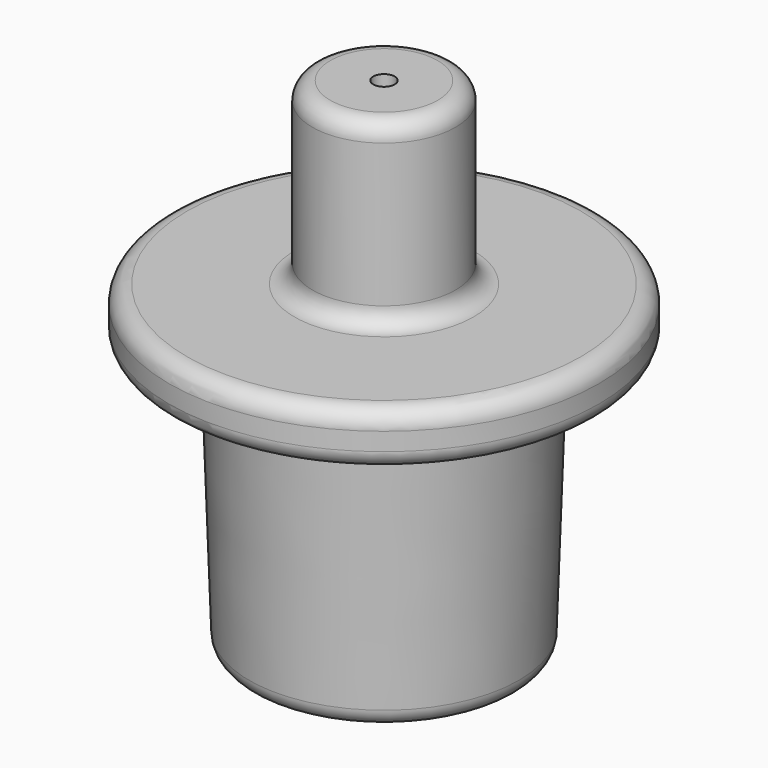
from build123d import *

# Parameters (mm, degrees)
F2_R = 1


with BuildPart() as f1:
    # F0 (on Front) → F1 (revolve)
    with BuildSketch(Plane.XZ):
        Polygon((4, 16.67762), (0.6, 16.67762), (0.6, -11.32238), (7.5, -11.32238), (8, 3.67762), (12, 3.67762), (12, 6.67762), (4, 6.67762), align=None)
        Polygon((4, 16.67762), (0.6, 16.67762), (0.6, -11.32238), (7.5, -11.32238), (8, 3.67762), (12, 3.67762), (12, 6.67762), (4, 6.67762), align=None)
    revolve(axis=Axis((0, 0, 0.295774), (0, 0, -1)))

    # F2
    f2_edges = [f1.edges().sort_by_distance(p)[0] for p in [
        (-7.5, 0, -11.32238),
        (-8, 0, 3.67762),
        (-12, 0, 3.67762),
        (-12, 0, 6.67762),
        (-4, 0, 16.67762),
        (-4, 0, 6.67762),
    ]]
    fillet(f2_edges, radius=F2_R)


solid = f1.part
